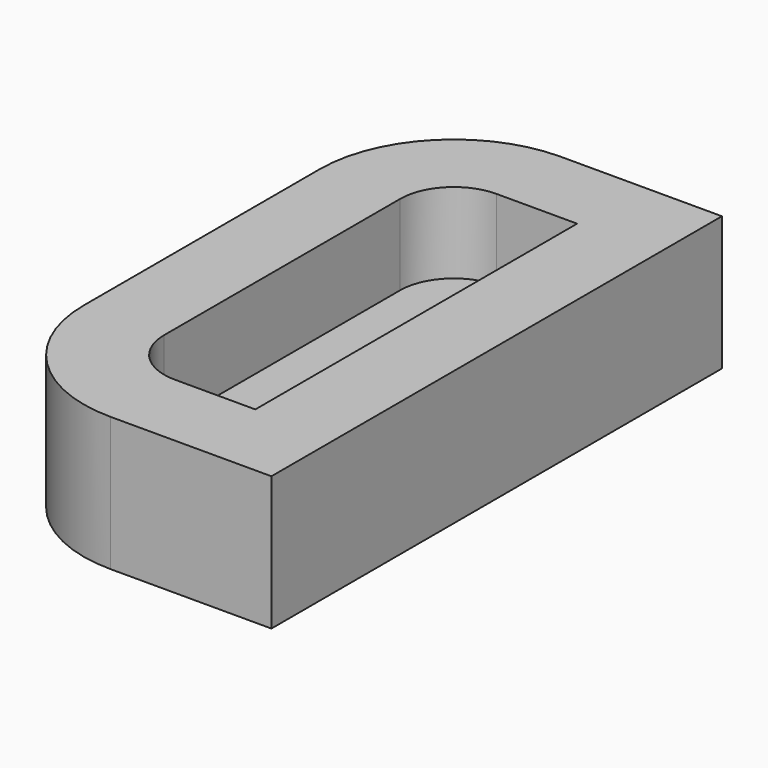
from build123d import *

# Parameters (mm, degrees)
F0_W     = 11
F0_H     = 21
F0_W_2   = 5
F0_H_2   = 15
F1_DEPTH = 3
F2_W     = 11
F2_H     = 21
F3_DEPTH = 2
F4_R     = 2
F5_R     = 5


with BuildPart() as f1:
    # F0 (on Top) → F1 (new body)
    with BuildSketch(Plane.XY):
        Rectangle(F0_W, F0_H)
        Rectangle(F0_W_2, F0_H_2, mode=Mode.SUBTRACT)
    extrude(amount=F1_DEPTH)

    # F2 (on face) → F3 (join)
    with BuildSketch(Plane(origin=(0, 0, 0), x_dir=(1, 0, 0), z_dir=(0, 0, -1))):
        Rectangle(F2_W, F2_H)
    extrude(amount=F3_DEPTH)

    # F4
    f4_edges = [f1.edges().sort_by_distance(p)[0] for p in [
        (-2.5, -7.5, 1.5),
        (-2.5, 7.5, 1.5),
    ]]
    fillet(f4_edges, radius=F4_R)

    # F5
    f5_edges = [f1.edges().sort_by_distance(p)[0] for p in [
        (-5.5, -10.5, 0.5),
        (-5.5, 10.5, 0.5),
    ]]
    fillet(f5_edges, radius=F5_R)


solid = f1.part
